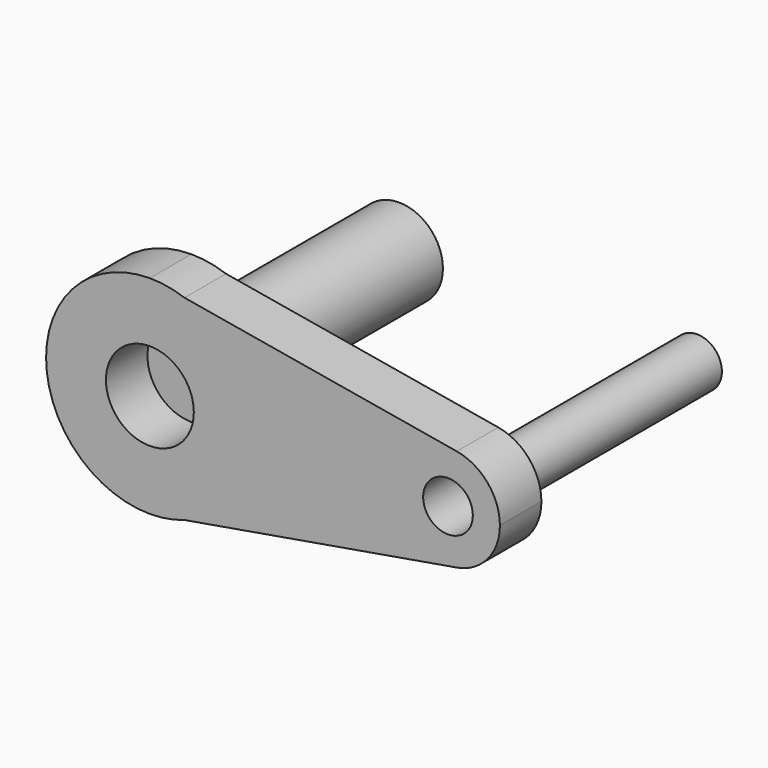
from build123d import *

# Parameters (mm, degrees)
F0_R     = 21.511444
F0_R_2   = 12.152123
F1_DEPTH = 25.4
F2_DEPTH = 127


with BuildPart() as f1:
    # F0 (on Front) → F1 (new body)
    with BuildSketch(Plane.XZ):
        with BuildLine():
            Line((16.929824, 47.89594), (0, 50.8))
            ThreePointArc((0, 50.8), (-50.8, 0), (0, -50.8))
            Line((0, -50.8), (16.929824, -47.89594))
            ThreePointArc((16.929824, -47.89594), (41.476952, -29.330913), (50.8, 0))
            ThreePointArc((50.8, 0), (41.476952, 29.330913), (16.929824, 47.89594))
        make_face()
        Circle(F0_R, mode=Mode.SUBTRACT)
        with BuildLine():
            ThreePointArc((16.929824, 47.89594), (8.588546, 50.068721), (0, 50.8))
            Line((0, 50.8), (16.929824, 47.89594))
        make_face()
        with BuildLine():
            Line((16.929824, -47.89594), (0, -50.8))
            ThreePointArc((0, -50.8), (8.588546, -50.068721), (16.929824, -47.89594))
        make_face()
        with BuildLine():
            Line((150.206164, 25.034361), (16.929824, 47.89594))
            ThreePointArc((16.929824, 47.89594), (41.476952, 29.330913), (50.8, 0))
            ThreePointArc((50.8, 0), (41.476952, -29.330913), (16.929824, -47.89594))
            Line((16.929824, -47.89594), (150.206164, -25.034361))
            ThreePointArc((150.206164, -25.034361), (120.511891, 0), (150.206164, 25.034361))
        make_face()
        with BuildLine():
            ThreePointArc((171.311891, 0), (165.331399, 16.372011), (150.206164, 25.034361))
            ThreePointArc((150.206164, 25.034361), (120.511891, 0), (150.206164, -25.034361))
            ThreePointArc((150.206164, -25.034361), (165.331399, -16.372011), (171.311891, 0))
        make_face()
        with Locations((145.911891, 0)):
            Circle(F0_R_2, mode=Mode.SUBTRACT)
    extrude(amount=F1_DEPTH)


with BuildPart() as f2:
    # F0 (on Front) → F2 (new body)
    with BuildSketch(Plane.XZ):
        Circle(F0_R)
        with Locations((145.911891, 0)):
            Circle(F0_R_2)
    extrude(amount=-F2_DEPTH)


solid = Compound([f1.part, f2.part])
